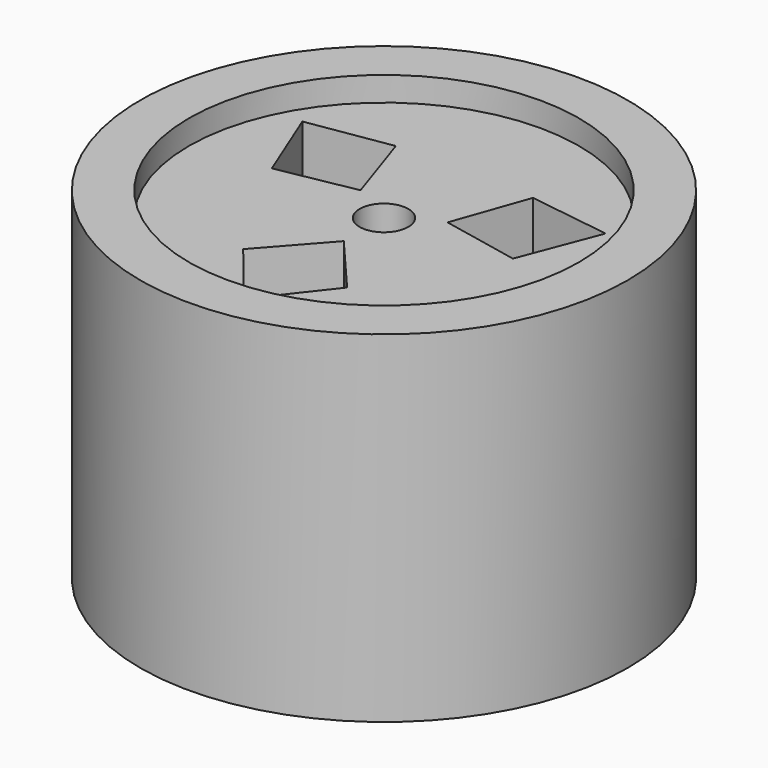
from build123d import *

# Parameters (mm, degrees)
F0_R     = 2
F0_R_2   = 0.25
F1_DEPTH = 1.5
F0_R_3   = 2.5
F2_DEPTH = 1.75


with BuildPart() as f1:
    # F0 (on Top) → F1 (new body, symmetric)
    with BuildSketch(Plane.XY):
        Circle(F0_R)
        Polygon((0.523771, -1.126971), (0, -1.79554), (-0.542237, -1.126971), (0, -0.515168), align=None, mode=Mode.SUBTRACT)
        Polygon((-0.446149, 0.257584), (-1.237871, 0.109887), (-1.554983, 0.89777), (-0.704868, 1.033076), align=None, mode=Mode.SUBTRACT)
        Circle(F0_R_2, mode=Mode.SUBTRACT)
        Polygon((0.446149, 0.257584), (0.7141, 1.017085), (1.554983, 0.89777), (1.247104, 0.093895), align=None, mode=Mode.SUBTRACT)
    extrude(amount=F1_DEPTH, both=True)

    # F0 (on Top) → F2 (join, symmetric)
    with BuildSketch(Plane.XY):
        Circle(F0_R_3)
        Circle(F0_R, mode=Mode.SUBTRACT)
    extrude(amount=F2_DEPTH, both=True)


solid = f1.part
